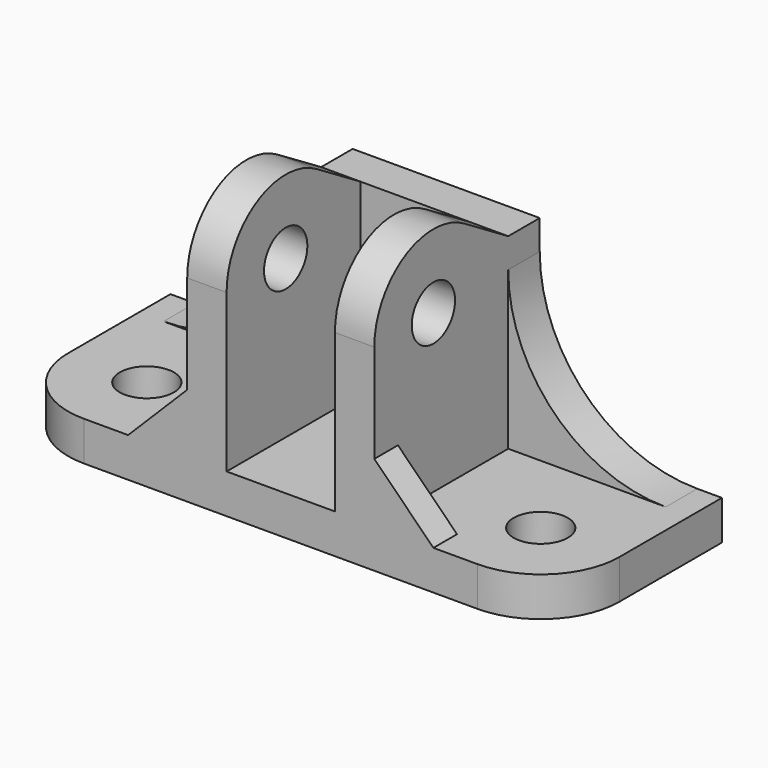
from build123d import *

# Parameters (mm, degrees)
F0_R     = 8.73125
F1_DEPTH = 12.7
F2_R     = 8.73125
F3_DEPTH = 30.1625
F5_DEPTH = 17.4625
F7_DEPTH = 9.525
F9_DEPTH = 12.7


with BuildPart() as f1:
    # F0 (on Top) → F1 (new body)
    with BuildSketch(Plane.XY):
        with BuildLine():
            ThreePointArc((-88.9, -7.9375), (-81.460512, -25.898012), (-63.5, -33.3375))
            ThreePointArc((-63.5, -33.3375), (-45.539488, -25.898012), (-38.1, -7.9375))
            ThreePointArc((-38.1, -7.9375), (-63.5, 17.4625), (-88.9, -7.9375))
        make_face()
        with Locations((-63.5, -7.9375)):
            Circle(F0_R, mode=Mode.SUBTRACT)
        with BuildLine():
            ThreePointArc((-38.1, -7.9375), (-45.539488, -25.898012), (-63.5, -33.3375))
            Line((-63.5, -33.3375), (63.5, -33.3375))
            ThreePointArc((63.5, -33.3375), (45.539488, 10.023012), (88.9, -7.9375))
            Line((88.9, -7.9375), (88.9, 33.3375))
            Line((88.9, 33.3375), (-88.9, 33.3375))
            Line((-88.9, 33.3375), (-88.9, -7.9375))
            ThreePointArc((-88.9, -7.9375), (-63.5, 17.4625), (-38.1, -7.9375))
        make_face()
        with BuildLine():
            ThreePointArc((88.9, -7.9375), (45.539488, 10.023012), (63.5, -33.3375))
            ThreePointArc((63.5, -33.3375), (81.460512, -25.898012), (88.9, -7.9375))
        make_face()
        with Locations((63.5, -7.9375)):
            Circle(F0_R, mode=Mode.SUBTRACT)
    extrude(amount=F1_DEPTH)

    # F2 (on Right) → F3 (join, symmetric)
    with BuildSketch(Plane.YZ):
        with BuildLine():
            Line((-33.3375, 63.5), (-33.3375, 12.7))
            Line((-33.3375, 12.7), (-7.9375, 12.7))
            Line((-7.9375, 12.7), (33.3375, 12.7))
            Line((33.3375, 12.7), (33.3375, 73.025))
            Line((33.3375, 73.025), (20.6375, 73.025))
            Line((20.6375, 73.025), (2.849747, 83.844552))
            ThreePointArc((2.849747, 83.844552), (11.232033, 75.169651), (14.2875, 63.5))
            ThreePointArc((14.2875, 63.5), (-9.525, 39.6875), (-33.3375, 63.5))
        make_face()
        with BuildLine():
            ThreePointArc((2.849747, 83.844552), (-21.194651, 84.257033), (-33.3375, 63.5))
            ThreePointArc((-33.3375, 63.5), (-9.525, 39.6875), (14.2875, 63.5))
            ThreePointArc((14.2875, 63.5), (11.232033, 75.169651), (2.849747, 83.844552))
        make_face()
        with Locations((-9.525, 63.5)):
            Circle(F2_R, mode=Mode.SUBTRACT)
    extrude(amount=F3_DEPTH, both=True)

    # F4 (on Right) → F5 (cut, symmetric)
    with BuildSketch(Plane.YZ):
        with BuildLine():
            Line((-33.3375, 12.7), (-7.9375, 12.7))
            Line((-7.9375, 12.7), (20.6375, 12.7))
            Line((20.6375, 12.7), (20.6375, 73.025))
            Line((20.6375, 73.025), (2.849747, 83.844552))
            ThreePointArc((2.849747, 83.844552), (-21.194651, 84.257033), (-33.3375, 63.5))
            Line((-33.3375, 63.5), (-33.3375, 12.7))
        make_face()
    extrude(amount=F5_DEPTH, both=True, mode=Mode.SUBTRACT)

    # F6 (on face) → F7 (join)
    with BuildSketch(Plane.XZ.offset(33.3375)):
        Polygon((-30.1625, 31.75), (-49.2125, 12.7), (-30.1625, 12.7), align=None)
        Polygon((30.1625, 31.75), (30.1625, 12.7), (49.2125, 12.7), align=None)
    extrude(amount=-F7_DEPTH)

    # F8 (on face) → F9 (join, through all)
    with BuildSketch(Plane(origin=(0, 33.3375, 0), x_dir=(-1, 0, 0), z_dir=(0, 1, 0))):
        with BuildLine():
            ThreePointArc((-30.1625, 63.5), (-45.041476, 27.578976), (-80.9625, 12.7))
            Line((-80.9625, 12.7), (-30.1625, 12.7))
            Line((-30.1625, 12.7), (-30.1625, 63.5))
        make_face()
        with BuildLine():
            ThreePointArc((80.9625, 12.7), (45.041476, 27.578976), (30.1625, 63.5))
            Line((30.1625, 63.5), (30.1625, 12.7))
            Line((30.1625, 12.7), (80.9625, 12.7))
        make_face()
    extrude(amount=-F9_DEPTH)


solid = f1.part
